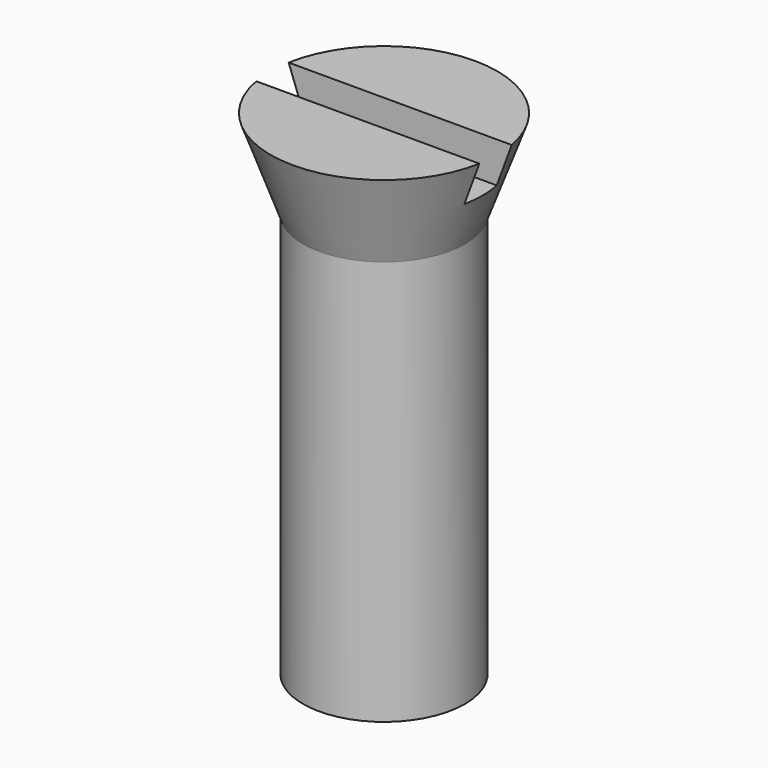
from build123d import *

# Parameters (mm, degrees)
BOX_W          = 6
BOX_H          = 1
BOX_DEPTH      = 1
CYLINDER_R     = 2
CYLINDER_DEPTH = 10


with BuildPart() as cub:
    # Box → Box (new body)
    with BuildSketch(Plane(origin=(-3, -0.5, 11.2), x_dir=(1, 0, 0), z_dir=(0, 0, 1))):
        with Locations((3, 0.5)):
            Rectangle(BOX_W, BOX_H)
    extrude(amount=BOX_DEPTH)


with BuildPart() as con:
    # Cone → Cone (revolve)
    with BuildSketch(Plane(origin=(0, 0, 10), x_dir=(1, 0, 0), z_dir=(0, -1, 0))):
        Polygon((0, 0), (2, 0), (2.8, 2.2), (0, 2.2), align=None)
    revolve(axis=Axis((0, 0, 10), (0, 0, 1)))


with BuildPart() as cargol:
    # Cylinder → Cylinder (new body)
    with BuildSketch(Plane.XY):
        Circle(CYLINDER_R)
    extrude(amount=CYLINDER_DEPTH)

    # Fusion: union Con
    add(con.part)

    # Cut: cut Cub
    add(cub.part, mode=Mode.SUBTRACT)


solid = cargol.part
